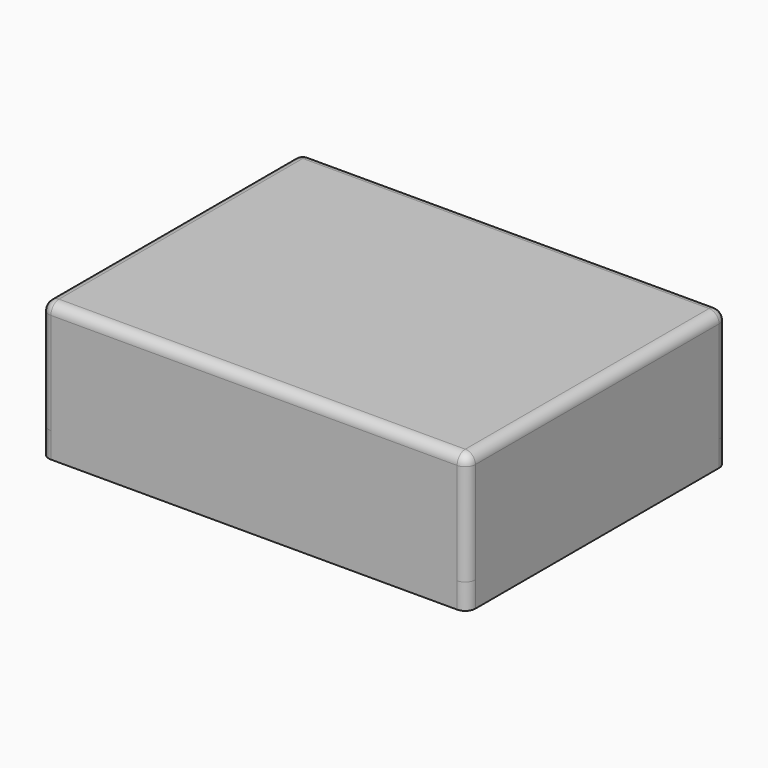
from build123d import *

# Parameters (mm, degrees)
BOX001_W       = 80
BOX001_H       = 60
BOX001_DEPTH   = 20
THICKNESS001_T = 2
PAD001_DEPTH   = 5


with BuildPart() as part:
    # Box001 → Box001 (new body)
    with BuildSketch(Plane.XY.offset(10)):
        with Locations((40, 30)):
            Rectangle(BOX001_W, BOX001_H)
    extrude(amount=BOX001_DEPTH)

    # Thickness001
    thickness001_openings = [part.faces().sort_by_distance(p)[0] for p in [
        (40, 30, 10),
    ]]
    offset(amount=THICKNESS001_T, openings=thickness001_openings)

    # Sketch005 → Pad001 (new body)
    with BuildSketch(Plane(origin=(0, 0, 10), x_dir=(1, 0, 0), z_dir=(0, 0, -1))):
        with BuildLine():
            Line((0, 2), (80, 2))
            ThreePointArc((82, 0), (81.414214, 1.414214), (80, 2))
            Line((82, 0), (82, -60))
            ThreePointArc((80, -62), (81.414214, -61.414214), (82, -60))
            Line((80, -62), (0, -62))
            ThreePointArc((-2, -60), (-1.414214, -61.414214), (0, -62))
            Line((-2, -60), (-2, 0))
            ThreePointArc((0, 2), (-1.414214, 1.414214), (-2, 0))
        make_face()
        with BuildLine():
            Line((0, 1), (80, 1))
            ThreePointArc((81, 0), (80.707107, 0.707107), (80, 1))
            Line((81, 0), (81, -60))
            ThreePointArc((80, -61), (80.707107, -60.707107), (81, -60))
            Line((80, -61), (0, -61))
            ThreePointArc((-1, -60), (-0.707107, -60.707107), (0, -61))
            Line((-1, -60), (-1, 0))
            ThreePointArc((0, 1), (-0.707107, 0.707107), (-1, 0))
        make_face(mode=Mode.SUBTRACT)
    extrude(amount=PAD001_DEPTH)


solid = part.part
